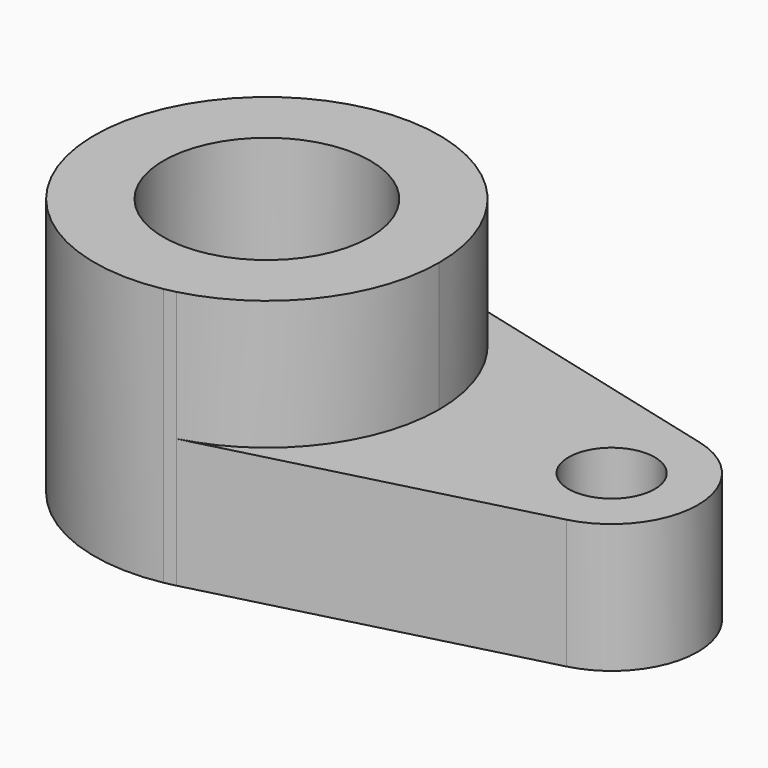
from build123d import *

# Parameters (mm, degrees)
F0_R     = 5
F1_DEPTH = 15
F0_R_2   = 12
F2_DEPTH = 30


with BuildPart() as f1:
    # F0 (on Top) → F1 (new body)
    with BuildSketch(Plane.XY):
        with BuildLine():
            ThreePointArc((5, 19.364917), (15.811388, 12.247449), (20, 0))
            ThreePointArc((20, 0), (15.811388, -12.247449), (5, -19.364917))
            Line((5, -19.364917), (42.5, -9.682458))
            ThreePointArc((42.5, -9.682458), (50, 0), (42.5, 9.682458))
            Line((42.5, 9.682458), (5, 19.364917))
        make_face()
        with Locations((40, 0)):
            Circle(F0_R, mode=Mode.SUBTRACT)
    extrude(amount=F1_DEPTH)

    # F0 (on Top) → F2 (join)
    with BuildSketch(Plane.XY):
        with BuildLine():
            ThreePointArc((5, -19.364917), (15.811388, -12.247449), (20, 0))
            ThreePointArc((20, 0), (15.811388, 12.247449), (5, 19.364917))
            ThreePointArc((5, 19.364917), (-19.989625, 0.644109), (3.742964, -19.646634))
            Line((3.742964, -19.646634), (5, -19.364917))
        make_face()
        Circle(F0_R_2, mode=Mode.SUBTRACT)
    extrude(amount=F2_DEPTH)


solid = f1.part
